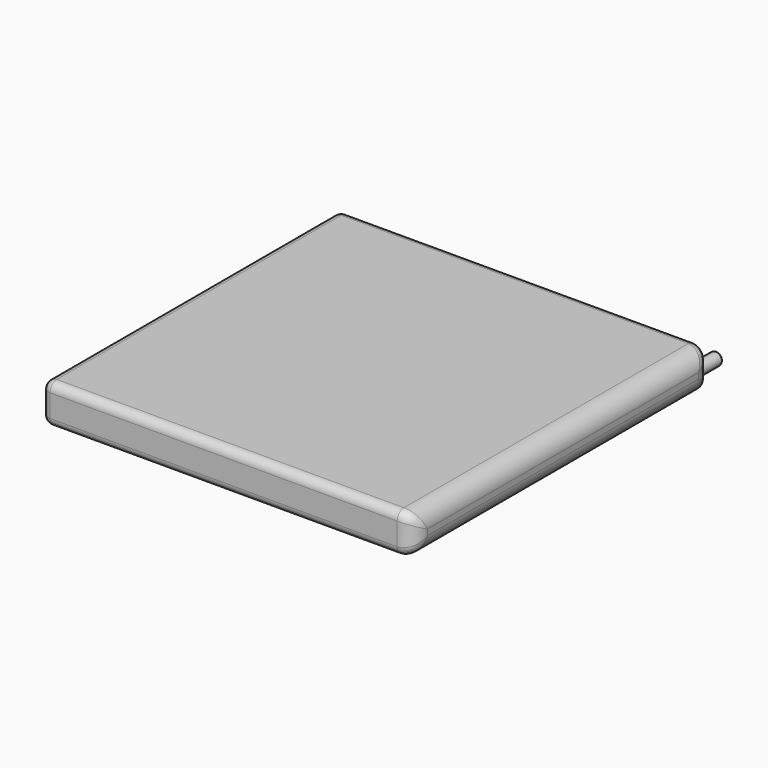
from build123d import *

# Parameters (mm, degrees)
SKETCH_W          = 44.5
SKETCH_H          = 44.5
PAD_DEPTH         = 4.7
FILLET_R          = 2
FILLET001_R       = 1
SKETCH001_R       = 0.75
PAD001_DEPTH      = 2
PAD001_DEPTH_BACK = 1
FILLET002_R       = 0.25


with BuildPart() as part:
    # Sketch → Pad (new body)
    with BuildSketch(Plane.XY):
        with Locations((-22.25, 22.25)):
            Rectangle(SKETCH_W, SKETCH_H)
    extrude(amount=PAD_DEPTH)

    # Fillet
    fillet_edges = [part.edges().sort_by_distance(p)[0] for p in [
        (0, 44.5, 2.35),
        (0, 0, 2.35),
        (0, 22.25, 0),
        (0, 22.25, 4.7),
    ]]
    fillet(fillet_edges, radius=FILLET_R)

    # Fillet001
    fillet001_edges = [part.edges().sort_by_distance(p)[0] for p in [
        (-23.25, 44.5, 0),
        (-2, 44.5, 2.35),
        (-44.5, 44.5, 2.35),
        (-23.25, 44.5, 4.7),
        (-44.5, 0, 2.35),
        (-44.5, 22.25, 0),
        (-44.5, 22.25, 4.7),
        (-23.25, 0, 0),
        (-2, 0, 2.35),
        (-23.25, 0, 4.7),
    ]]
    fillet(fillet001_edges, radius=FILLET001_R)

    # Sketch001 (on Face1 of Fillet001) → Pad001 (join, two sides)
    with BuildSketch(Plane(origin=(0, 44.5, 0), x_dir=(-1, 0, 0), z_dir=(0, 1, 0))) as pad001_sk:
        with Locations((0.996389, 2.278105)):
            Circle(SKETCH001_R)
    extrude(amount=PAD001_DEPTH)
    extrude(pad001_sk.sketch, amount=-PAD001_DEPTH_BACK)

    # Fillet002
    fillet002_edges = [part.edges().sort_by_distance(p)[0] for p in [
        (-0.246389, 46.5, 2.278105),
    ]]
    fillet(fillet002_edges, radius=FILLET002_R)


solid = part.part
